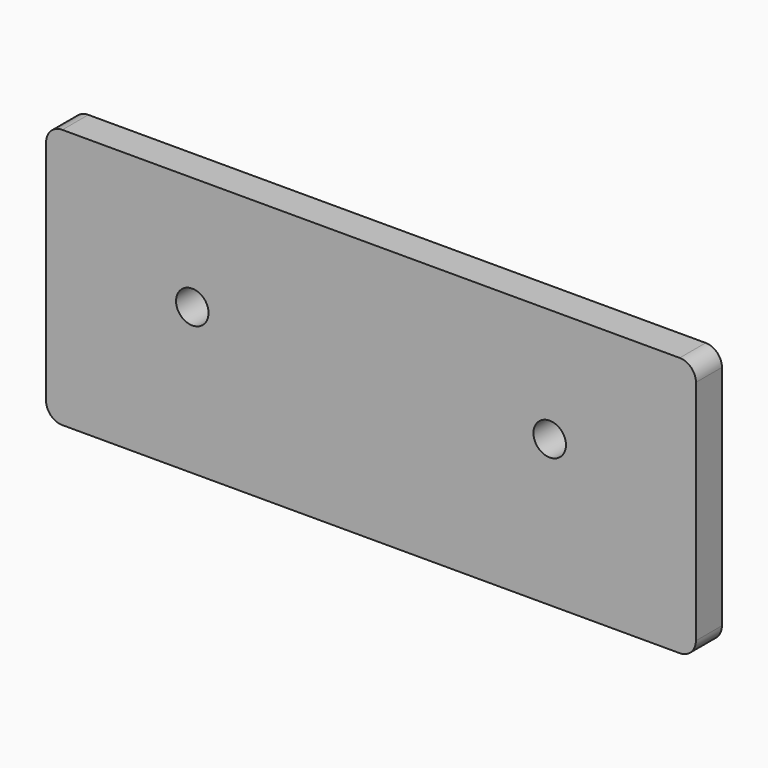
from build123d import *

# Parameters (mm, degrees)
F0_W     = 254
F0_H     = 101.6
F0_R     = 6.35
F1_DEPTH = 12.7
F2_R     = 6.35


with BuildPart() as f1:
    # F0 (on Front) → F1 (new body)
    with BuildSketch(Plane.XZ):
        with Locations((-0.458753, -6.35)):
            Rectangle(F0_W, F0_H)
        with Locations((-70.308753, 0)):
            Circle(F0_R, mode=Mode.SUBTRACT)
        with Locations((69.391247, 0)):
            Circle(F0_R, mode=Mode.SUBTRACT)
    extrude(amount=F1_DEPTH)

    # F2
    f2_edges = [f1.edges().sort_by_distance(p)[0] for p in [
        (-127.458753, -6.35, 44.45),
        (126.541247, -6.35, 44.45),
        (-127.458753, -6.35, -57.15),
        (126.541247, -6.35, -57.15),
    ]]
    fillet(f2_edges, radius=F2_R)


solid = f1.part
